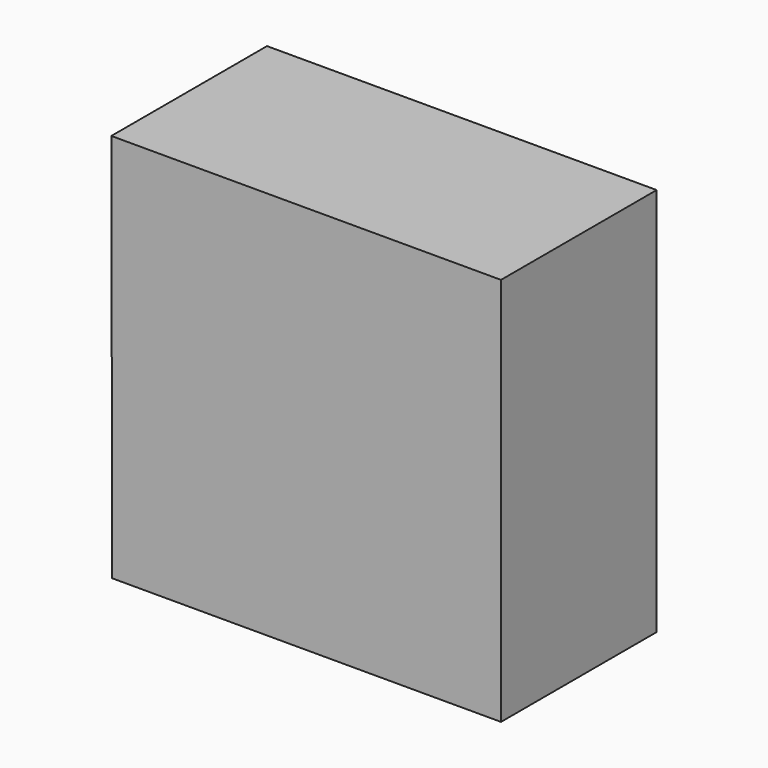
from build123d import *

# Parameters (mm, degrees)
F0_W     = 76.373182
F0_H     = 76.373182
F1_DEPTH = 76.3778


with BuildPart() as f1:
    # F0 (on Front) → F1 (new body)
    with BuildSketch(Plane.XZ):
        with Locations((38.186591, 38.186591)):
            Rectangle(F0_W, F0_H)
        Polygon((-76.373182, 0), (0, 0), (0, 76.373182), (-76.575227, 76.373182), (-76.575227, 0), align=None)
        with Locations((-38.186591, -38.186591)):
            Rectangle(F0_W, F0_H)
        with Locations((38.186591, -38.186591)):
            Rectangle(F0_W, F0_H)
    extrude(amount=F1_DEPTH)


solid = f1.part
